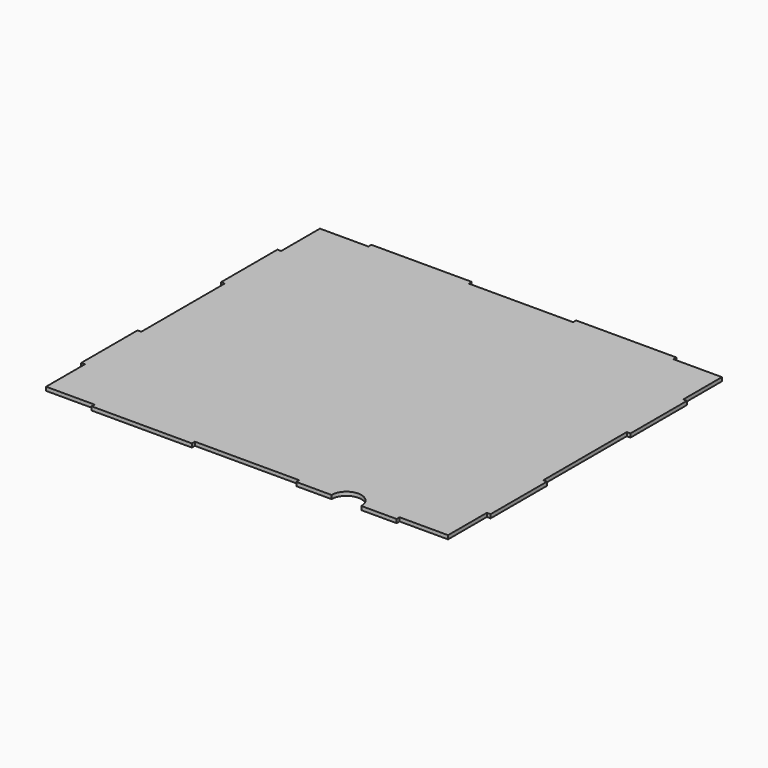
from build123d import *

# Parameters (mm, degrees)
F0_W     = 348.615
F0_H     = 297.815
F1_DEPTH = 3.175
F2_W     = 44.45
F2_H     = 3.175
F2_W_2   = 3.175
F2_H_2   = 44.45
F3_DEPTH = 3.176
F5_DEPTH = 3.176


with BuildPart() as f1:
    # F0 (on Top) → F1 (new body)
    with BuildSketch(Plane.XY):
        Rectangle(F0_W, F0_H)
    extrude(amount=F1_DEPTH)

    # F2 (on face) → F3 (cut, through all)
    with BuildSketch(Plane.XY.offset(3.175)):
        Polygon((-129.8575, 145.7325), (-129.8575, 148.9075), (-174.3075, 148.9075), (-174.3075, 104.4575), (-171.1325, 104.4575), (-171.1325, 145.7325), align=None)
        with Locations((-22.225, 147.32)):
            Rectangle(F2_W, F2_H)
        with Locations((22.225, 147.32)):
            Rectangle(F2_W, F2_H)
        with Locations((-172.72, 22.225)):
            Rectangle(F2_W_2, F2_H_2)
        with Locations((-172.72, -22.225)):
            Rectangle(F2_W_2, F2_H_2)
        with Locations((172.72, -22.225)):
            Rectangle(F2_W_2, F2_H_2)
        with Locations((172.72, 22.225)):
            Rectangle(F2_W_2, F2_H_2)
        Polygon((171.1325, 145.7325), (171.1325, 104.4575), (174.3075, 104.4575), (174.3075, 148.9075), (129.8575, 148.9075), (129.8575, 145.7325), align=None)
        with Locations((-22.225, -147.32)):
            Rectangle(F2_W, F2_H)
        with Locations((22.225, -147.32)):
            Rectangle(F2_W, F2_H)
        Polygon((-171.1325, -145.7325), (-171.1325, -104.4575), (-174.3075, -104.4575), (-174.3075, -148.9075), (-129.8575, -148.9075), (-129.8575, -145.7325), align=None)
        Polygon((129.8575, -145.7325), (129.8575, -148.9075), (174.3075, -148.9075), (174.3075, -104.4575), (171.1325, -104.4575), (171.1325, -145.7325), align=None)
    extrude(amount=-F3_DEPTH, mode=Mode.SUBTRACT)

    # F4 (on face) → F5 (cut, through all)
    with BuildSketch(Plane.XY.offset(3.175)):
        with BuildLine():
            Line((74.45375, -148.9075), (99.85375, -148.9075))
            ThreePointArc((99.85375, -148.9075), (87.15375, -136.2075), (74.45375, -148.9075))
        make_face()
    extrude(amount=-F5_DEPTH, mode=Mode.SUBTRACT)


solid = f1.part
